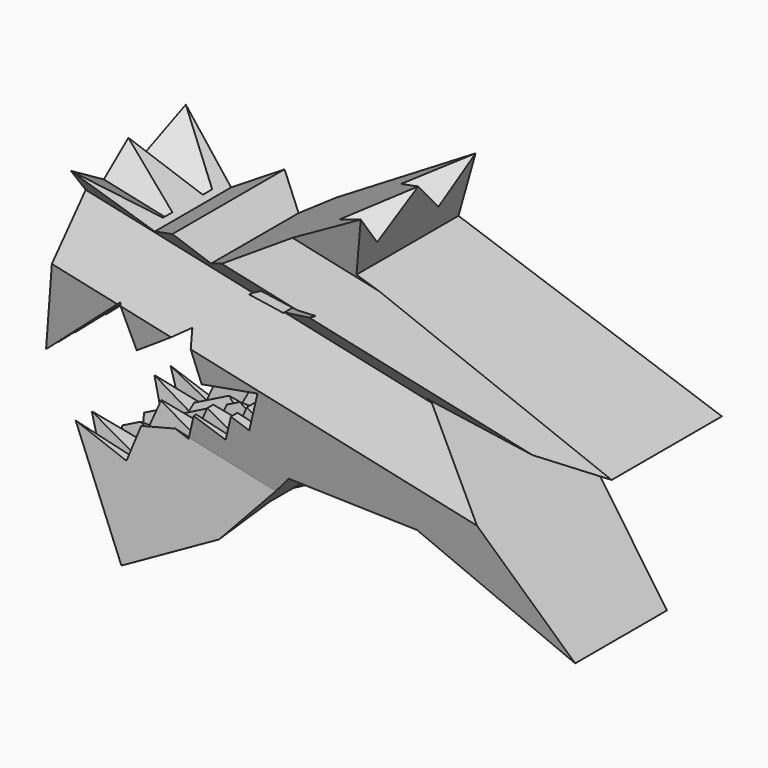
from build123d import *

# Parameters (mm, degrees)
F1_DEPTH  = 25.4
F4_DEPTH  = 169.926
F6_DEPTH  = 11.684
F7_DEPTH  = 16.51
F9_DEPTH  = 31.496
F11_DEPTH = 10.2616
F13_DEPTH = 9.652
F15_DEPTH = 25.4
F17_DEPTH = 12.7


with BuildPart() as f1:
    # F0 (on Front) → F1 (new body)
    with BuildSketch(Plane.XZ):
        Polygon((-25.2829822091, -27.8462357014), (0, 0), (23.4188, 0), (50.4494512243, -12.4667265669), (22.7197339698, 19.2243841199), (58.1392117013, 19.2243841199), (11.5346315226, 35.3029645376), (14.5639299105, 46.0220128964), (-14.3309061494, 28.545299105), (-18.9913642986, 32.7397110453), (-25.2829822091, 29.4773915228), (-36.7011018511, 36.9341229856), (-43.4587646572, 5.7823436524), (-28.0792568359, 19.2243841199), (-25.9820508658, 12.0006751049), (-16.1146658425, 18.7470695649), (-14.3309061494, 10.6025377915), (-3.786655088, 12.9118676044), (-6.3459709492, 5.7823436524), (-9.5428774784, 6.9299509319), (-11.1616870292, 2.4204092839), (-16.701269462, 4.4089770031), (-18.28397889, 0), (-25.3361824483, 2.5315598271), (-28.5453017316, -6.4081311043), (-37.6331942689, -3.1458112534), align=None)
        Polygon((-2.8092726134, 23.9614471793), (-8.7583232671, 24.952955544), (-4.131285008, 28.2579828054), (6.4448039047, 28.2579828054), align=None, mode=Mode.SUBTRACT)
    extrude(amount=-F1_DEPTH)

    # F3 (on offset) → F4 (cut)
    with BuildSketch(Plane(origin=(-67.5262634814, 0, 14.6482714288), x_dir=(0, -1, 0), z_dir=(-0.977270453, 0, 0.2119963717))):
        Polygon((14.5066948608, 59.1173246503), (-35.2624282241, 55.4633885622), (-35.2624282241, -53.2410554588), (17.4080338329, -53.2410554588), align=None)
        Polygon((-20.7256378636, 22.9740403172), (-25.4, 28.3141266711), (-25.4, 48.063453692), (-19.4753054529, 41.2949621677), (-12.7, 48.063453692), (-5.9246945471, 41.2949621677), (0, 48.063453692), (-2.9623472735, 36.4609154864), (0, 28.3141266711), (-4.6743621364, 22.9740403172), (0, 12.3759699221), (-2.9623472735, -3.6534166429), (0, -32.7376574278), (-12.7, -28.1106177717), (-25.4, -32.7376574278), (-22.4376527265, -3.6534166429), (-25.4, 12.3759699221), align=None, mode=Mode.SUBTRACT)
    extrude(amount=-F4_DEPTH, mode=Mode.SUBTRACT)

    # F5 (on face) → F6 (cut)
    with BuildSketch(Plane(origin=(-42.7035939744, 0, 9.2635635865), x_dir=(0, -1, 0), z_dir=(-0.977270453, 0, 0.2119963717))):
        Polygon((-16.7172383517, 22.9770150036), (-12.7, 28.3141266711), (-25.4, 28.3141266711), align=None)
        Polygon((0, 28.3141266711), (-12.7, 28.3141266711), (-8.6827616483, 22.9770150036), align=None)
    extrude(amount=-F6_DEPTH, mode=Mode.SUBTRACT)

    # F5 (on face) → F7 (cut)
    with BuildSketch(Plane(origin=(-42.7035939744, 0, 9.2635635865), x_dir=(0, -1, 0), z_dir=(-0.977270453, 0, 0.2119963717))):
        Polygon((-9.3523024857, -3.5621868269), (-12.7, 5.1226234064), (-12.7, -3.5621868269), align=None)
        Polygon((-12.7, -3.5621868269), (-12.7, 5.1226234064), (-16.0476975143, -3.5621868269), align=None)
        Polygon((-2.9454873397, 7.5776022859), (-5.5582433283, -3.5621868269), (-2.9454873397, -3.5621868269), align=None)
        Polygon((-7.3436818361, 7.5776022859), (-9.3523024857, -3.5621868269), (-5.5582433283, -3.5621868269), align=None)
        Polygon((-22.4545126603, -3.5621868269), (-19.8417566717, -3.5621868269), (-22.4545126603, 7.5776022859), align=None)
        Polygon((-19.8417566717, -3.5621868269), (-16.0476975143, -3.5621868269), (-18.0563181639, 7.5776022859), align=None)
    extrude(amount=-F7_DEPTH, mode=Mode.SUBTRACT)

    # F8 (on face) → F9 (cut)
    with BuildSketch(Plane(origin=(-31.3648800665, 0, -15.6824398248), x_dir=(0, -1, 0), z_dir=(-0.8944271934, 0, -0.4472135907))):
        Polygon((-5.7814236075, 14.0163768099), (-12.7, 14.0163768099), (-12.7, 6.5690530464), (-10.2450217396, 10.1399319246), (-8.4595832318, 3.8908948191), align=None)
        Polygon((-12.7, 6.5690530464), (-12.7, 14.0163768099), (-19.6185763925, 14.0163768099), (-16.9404167682, 3.8908948191), (-15.1549782604, 10.1399319246), align=None)
        Polygon((-21.6271951795, 5.6763342582), (-19.6185763925, 14.0163768099), (-23.1912699548, 14.0163768099), align=None)
        Polygon((-2.2087300452, 14.0163768099), (-5.7814236075, 14.0163768099), (-3.7728048205, 5.6763342582), align=None)
    extrude(amount=-F9_DEPTH, mode=Mode.SUBTRACT)

    # F10 (on face) → F11 (cut)
    with BuildSketch(Plane(origin=(-11.4591522864, 0, -2.5097052273), x_dir=(0, -1, 0), z_dir=(-0.9768463199, 0, -0.2139422057))):
        Polygon((-3.4116211623, 17.2060988843), (-5.6027251571, 13.4230356936), (-0.9337430366, 13.4230356936), align=None)
        Polygon((-7.2460531533, 16.8293807656), (-9.2189666148, 13.4230356936), (-5.6027251571, 13.4230356936), align=None)
        Polygon((-11.4083121304, 14.6910778762), (-12.7, 13.4230356936), (-9.2189666148, 13.4230356936), align=None)
        Polygon((-13.9916878696, 14.6910778762), (-16.1810333852, 13.4230356936), (-12.7, 13.4230356936), align=None)
        Polygon((-18.1539468467, 16.8293807656), (-19.7972748429, 13.4230356936), (-16.1810333852, 13.4230356936), align=None)
        Polygon((-21.9883788377, 17.2060988843), (-24.4662569634, 13.4230356936), (-19.7972748429, 13.4230356936), align=None)
    extrude(amount=-F11_DEPTH, mode=Mode.SUBTRACT)

    # F12 (on face) → F13 (cut)
    with BuildSketch(Plane(origin=(-20.7490999243, 0, -6.0239326011), x_dir=(0, -1, 0), z_dir=(-0.9603462222, 0, -0.2788102104))):
        Polygon((-20.2049957102, 18.7688640709), (-22.4545126603, 20.3128488984), (-22.1360511721, 18.7688640709), align=None)
        Polygon((-22.4545126603, 20.3128488984), (-24.262295869, 18.7688640709), (-22.4545126603, 18.7688640709), align=None)
        Polygon((-18.0563181639, 20.3128488984), (-20.2049957102, 18.7688640709), (-18.2739402483, 18.7688640709), align=None)
        Polygon((-15.3436372057, 18.7688640709), (-18.0563181639, 20.3128488984), (-17.8114930351, 18.7688640709), align=None)
        Polygon((-14.4648426905, 20.3128488984), (-15.3436372057, 18.7688640709), (-12.7, 18.7688640709), align=None)
        Polygon((-10.9351573095, 20.3128488984), (-12.7, 18.7688640709), (-10.0563627943, 18.7688640709), align=None)
        Polygon((-7.3436818361, 20.3128488984), (-10.0563627943, 18.7688640709), (-7.5885069649, 18.7688640709), align=None)
        Polygon((-3.2639488279, 18.7688640709), (-2.9454873397, 20.3128488984), (-5.1950042898, 18.7688640709), align=None)
        Polygon((-2.9454873397, 18.7688640709), (-1.137704131, 18.7688640709), (-2.9454873397, 20.3128488984), align=None)
        Polygon((-5.1950042898, 18.7688640709), (-7.3436818361, 20.3128488984), (-7.1260597517, 18.7688640709), align=None)
    extrude(amount=-F13_DEPTH, mode=Mode.SUBTRACT)

    # F14 (on face) + F4_face (on face) + F4_face1 (on face) → F15 (cut)
    with BuildSketch(Plane(origin=(-31.3648800665, 0, -15.6824398248), x_dir=(0, -1, 0), z_dir=(-0.8944271934, 0, -0.4472135907))):
        Polygon((-0.4513815064, -13.5995371861), (-12.7, -0.6520022383), (-12.7, -7.8730575229), align=None)
        Polygon((-12.7, -7.8730575229), (-12.7, -0.6520022383), (-24.9486184936, -13.5995371861), align=None)
        Polygon((-24.9486184936, -13.5995371861), (-12.7, -0.6520022383), (-24.8639052169, -7.056514379), (-25.383249742, -13.5995371861), align=None)
        Polygon((-0.5360947831, -7.056514379), (-12.7, -0.6520022383), (-0.4513815064, -13.5995371861), (-0.016750258, -13.5995371861), align=None)
    with BuildSketch(Plane(origin=(-24.9820310736, 8.6171271688, -24.8672682683), x_dir=(1, 0, 0), z_dir=(-0.1991881392, 0.3423217921, -0.918226484))):
        Polygon((-2.9204324331, -4.5742430651), (3.2275375662, -4.1177018963), (-0.3071051331, 8.6919449615), align=None)
    with BuildSketch(Plane(origin=(-24.9820310736, 16.7828728312, -24.8672682683), x_dir=(1, 0, 0), z_dir=(-0.1991881392, -0.3423217921, -0.918226484))):
        Polygon((-2.9204324331, 4.5742430651), (-0.3071051331, -8.6919449615), (3.2275375662, 4.1177018963), align=None)
    extrude(amount=-F15_DEPTH, dir=(-0.8944271934, 0, -0.4472135907), mode=Mode.SUBTRACT)

    # F16 (on face) → F17 (cut)
    with BuildSketch(Plane(origin=(0, 0, 0), x_dir=(1, 0, 0), z_dir=(0, 0, -1))):
        with BuildLine():
            ThreePointArc((15.8222760521, -8.4226456984), (11.2152897889, -6.4135), (6.6083035258, -8.4226456984))
            Line((6.6083035258, -8.4226456984), (11.2152897889, -12.7))
            Line((11.2152897889, -12.7), (15.8222760521, -8.4226456984))
        make_face()
        with BuildLine():
            Line((11.2152897889, -12.7), (6.6083035258, -8.4226456984))
            ThreePointArc((6.6083035258, -8.4226456984), (4.9287897889, -12.7), (6.6083035258, -16.9773543016))
            Line((6.6083035258, -16.9773543016), (11.2152897889, -12.7))
        make_face()
        with BuildLine():
            Line((15.8222760521, -8.4226456984), (11.2152897889, -12.7))
            Line((11.2152897889, -12.7), (15.8222760521, -16.9773543016))
            ThreePointArc((15.8222760521, -16.9773543016), (17.066866559, -14.9976360794), (17.5017897889, -12.7))
            ThreePointArc((17.5017897889, -12.7), (17.066866559, -10.4023639206), (15.8222760521, -8.4226456984))
        make_face()
        with BuildLine():
            Line((15.8222760521, -16.9773543016), (11.2152897889, -12.7))
            Line((11.2152897889, -12.7), (6.6083035258, -16.9773543016))
            ThreePointArc((6.6083035258, -16.9773543016), (11.2152897889, -18.9865), (15.8222760521, -16.9773543016))
        make_face()
    extrude(amount=-F17_DEPTH, mode=Mode.SUBTRACT)


solid = f1.part
